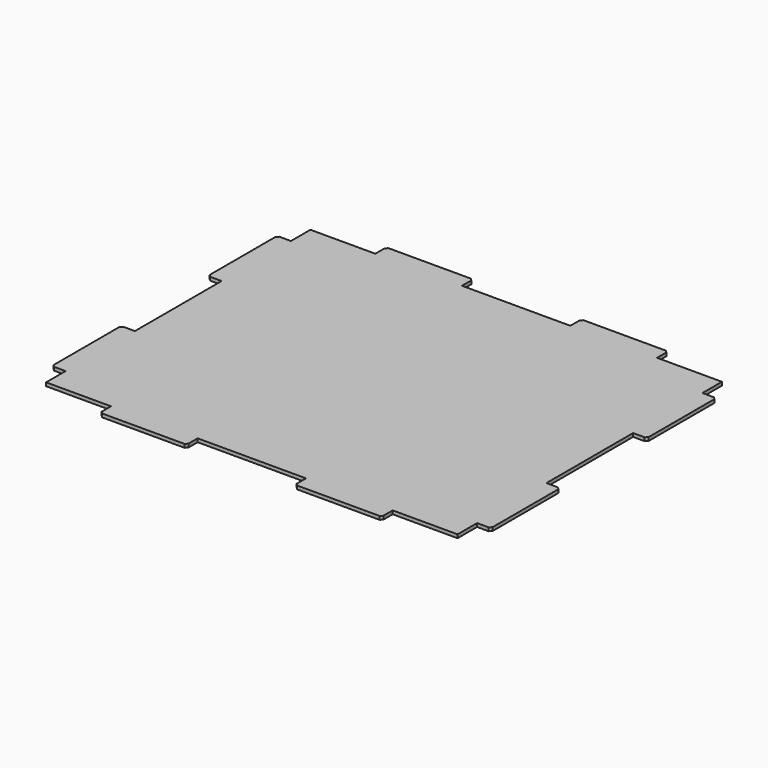
from build123d import *

# Parameters (mm, degrees)
F2_DEPTH = 3.18
F3_SIZE  = 2


with BuildPart() as f2:
    # F1 (on Top) → F2 (new body)
    with BuildSketch(Plane.XY):
        Polygon((-189.9, -130), (-189.9, -152.5), (-130, -152.5), (-130, -165.2), (-50, -165.2), (-50, -152.5), (50, -152.5), (50, -165.2), (130, -165.2), (130, -152.5), (189.9, -152.5), (189.9, -130), (202.6, -130), (202.6, -50), (189.9, -50), (189.9, 50), (202.6, 50), (202.6, 130), (189.9, 130), (189.9, 152.5), (130, 152.5), (130, 165.2), (50, 165.2), (50, 152.5), (-50, 152.5), (-50, 165.2), (-130, 165.2), (-130, 152.5), (-189.9, 152.5), (-189.9, 130), (-202.6, 130), (-202.6, 50), (-189.9, 50), (-189.9, -50), (-202.6, -50), (-202.6, -130), align=None)
    extrude(amount=F2_DEPTH)

    # F3
    f3_edges = [f2.edges().sort_by_distance(p)[0] for p in [
        (-202.6, 50, 1.59),
        (-202.6, -50, 1.59),
        (-202.6, -130, 1.59),
        (-130, -165.2, 1.59),
        (-50, -165.2, 1.59),
        (50, -165.2, 1.59),
        (130, -165.2, 1.59),
        (202.6, -130, 1.59),
        (202.6, -50, 1.59),
        (202.6, 50, 1.59),
        (202.6, 130, 1.59),
        (130, 165.2, 1.59),
        (50, 165.2, 1.59),
        (-50, 165.2, 1.59),
        (-130, 165.2, 1.59),
        (-202.6, 130, 1.59),
    ]]
    chamfer(f3_edges, length=F3_SIZE)


solid = f2.part
